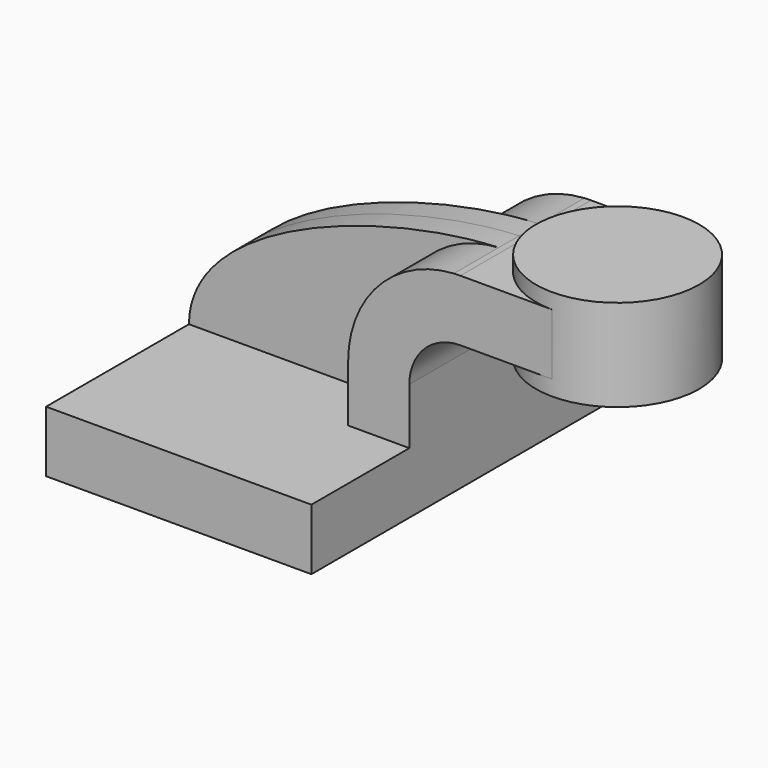
from build123d import *

# Parameters (mm, degrees)
F1_DEPTH = 63.5
F0_W     = 25.4
F0_H     = 19.05
F2_DEPTH = 25.4
F3_DEPTH = 7.9375


with BuildPart() as f1:
    # F0 (on Front) → F1 (new body, symmetric)
    with BuildSketch(Plane.XZ):
        Polygon((-41.275, -9.525), (41.275, -9.525), (41.275, 9.525), (22.225, 9.525), (-41.275, 9.525), align=None)
    extrude(amount=F1_DEPTH, both=True)

    # F0 (on Front) → F2 (join, symmetric)
    with BuildSketch(Plane.XZ):
        with BuildLine():
            Line((22.225, 9.525), (41.275, 9.525))
            Line((41.275, 9.525), (41.275, 26.9875))
            ThreePointArc((41.275, 26.9875), (45.9246798487, 38.2128201513), (57.15, 42.8625))
            Line((57.15, 42.8625), (60.325, 42.8625))
            Line((60.325, 42.8625), (60.325, 61.9125))
            Line((60.325, 61.9125), (57.15, 61.9125))
            add(Edge.make_bspline(
                [(55.1065557691, 61.8526683013), (55.7974191484, 61.8796491304), (56.4787770702, 61.8996113569), (57.15, 61.9125)],
                knots=[109.3708422168, 109.3708422168, 109.3708422168, 109.3708422168, 111.4985685166, 111.4985685166, 111.4985685166, 111.4985685166], degree=3))
            ThreePointArc((55.1065557691, 61.8526683013), (31.7420985246, 50.9498489587), (22.225, 26.9875))
            Line((22.225, 26.9875), (22.225, 9.525))
        make_face()
        with Locations((73.025, 52.3875)):
            Rectangle(F0_W, F0_H)
    extrude(amount=F2_DEPTH, both=True)

    # F0 (on Front) → F3 (join, symmetric)
    with BuildSketch(Plane.XZ):
        with BuildLine():
            add(Edge.make_bspline(
                [(-41.275, 9.525), (-41.0335689885, 40.5340906576), (19.5943239296, 60.4657812745), (55.1065557691, 61.8526683013)],
                knots=[0, 0, 0, 0, 109.3708422168, 109.3708422168, 109.3708422168, 109.3708422168], degree=3))
            Line((-41.275, 9.525), (22.225, 9.525))
            Line((22.225, 9.525), (22.225, 26.9875))
            ThreePointArc((22.225, 26.9875), (31.7420985246, 50.9498489587), (55.1065557691, 61.8526683013))
        make_face()
    extrude(amount=F3_DEPTH, both=True)

    # F0 (on Front) → F4 (revolve)
    with BuildSketch(Plane.XZ):
        Polygon((85.725, 61.9125), (85.725, 42.8625), (85.725, 38.1), (111.125, 38.1), (111.125, 66.675), (85.725, 66.675), align=None)
    revolve(axis=Axis((85.725, 0, 52.3875), (0, 0, 1)))


solid = f1.part
